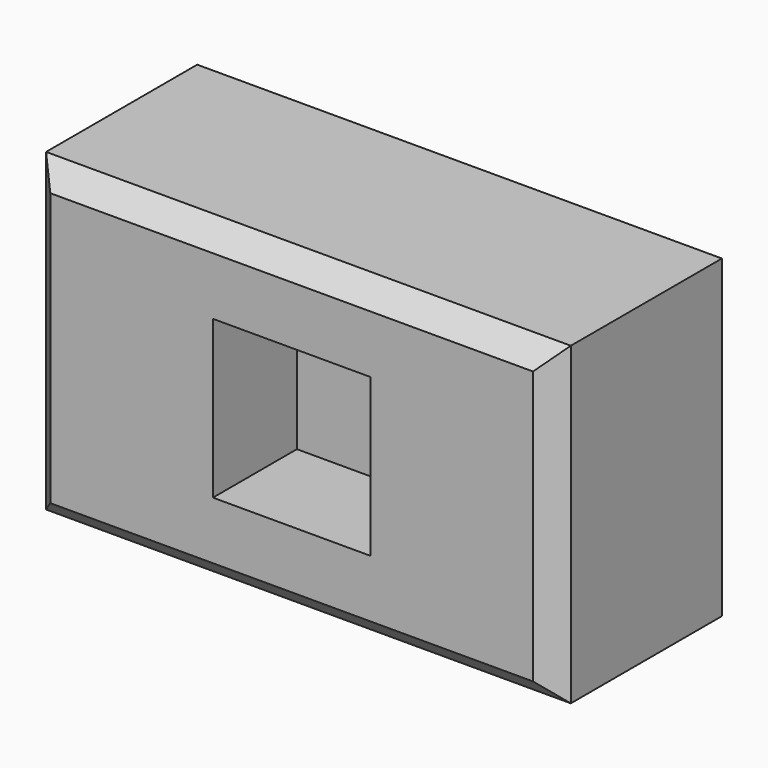
from build123d import *

# Parameters (mm, degrees)
F0_W     = 127
F0_H     = 76.2
F1_DEPTH = 50.8
F2_W     = 38.1
F2_H     = 38.1
F3_DEPTH = 25.4
F4_SIZE  = 5.08


with BuildPart() as f1:
    # F0 (on Front) → F1 (new body)
    with BuildSketch(Plane.XZ):
        with Locations((-5.314695, -11.454906)):
            Rectangle(F0_W, F0_H)
    extrude(amount=F1_DEPTH)

    # F2 (on face) → F3 (cut)
    with BuildSketch(Plane.XZ.offset(50.8)):
        with Locations((-5.314695, -11.454906)):
            Rectangle(F2_W, F2_H)
    extrude(amount=-F3_DEPTH, mode=Mode.SUBTRACT)

    # F4
    f4_edges = [f1.edges().sort_by_distance(p)[0] for p in [
        (-5.314695, -50.8, 26.645094),
        (58.185305, -50.8, -11.454906),
        (-5.314695, -50.8, -49.554906),
        (-68.814695, -50.8, -11.454906),
    ]]
    chamfer(f4_edges, length=F4_SIZE)


solid = f1.part
